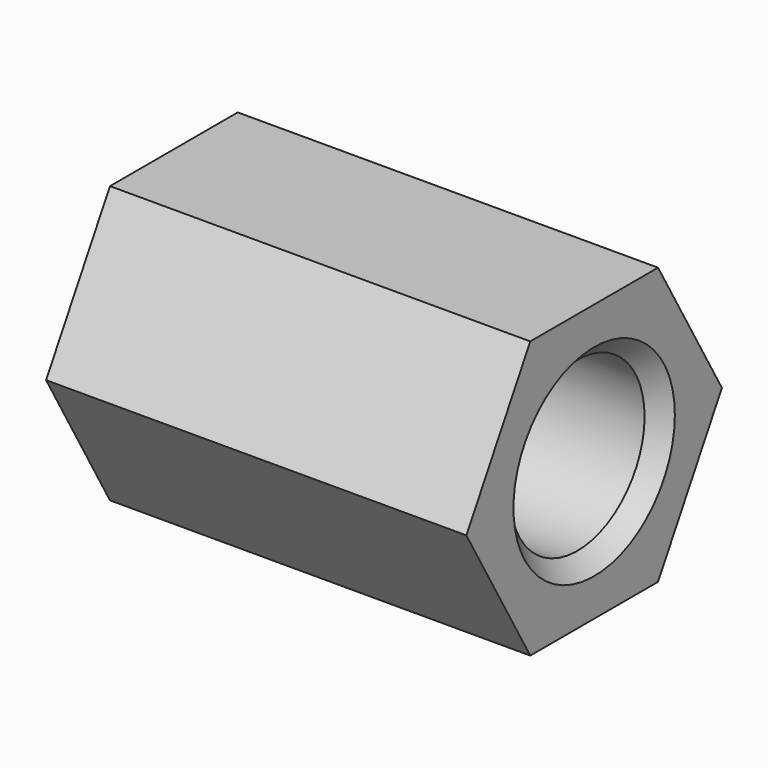
from build123d import *

# Parameters (mm, degrees)
F0_R     = 5
F1_DEPTH = 25
F2_SIZE  = 1


with BuildPart() as f1:
    # F0 (on Right) → F1 (new body)
    with BuildSketch(Plane.YZ):
        Polygon((4.75, 8.227241), (-4.75, 8.227241), (-9.5, 0), (-4.75, -8.227241), (4.75, -8.227241), (9.5, 0), align=None)
        Circle(F0_R, mode=Mode.SUBTRACT)
    extrude(amount=F1_DEPTH)

    # F2
    f2_edges = [f1.edges().sort_by_distance(p)[0] for p in [
        (0, -5, 0),
        (25, -5, 0),
    ]]
    chamfer(f2_edges, length=F2_SIZE)


solid = f1.part
